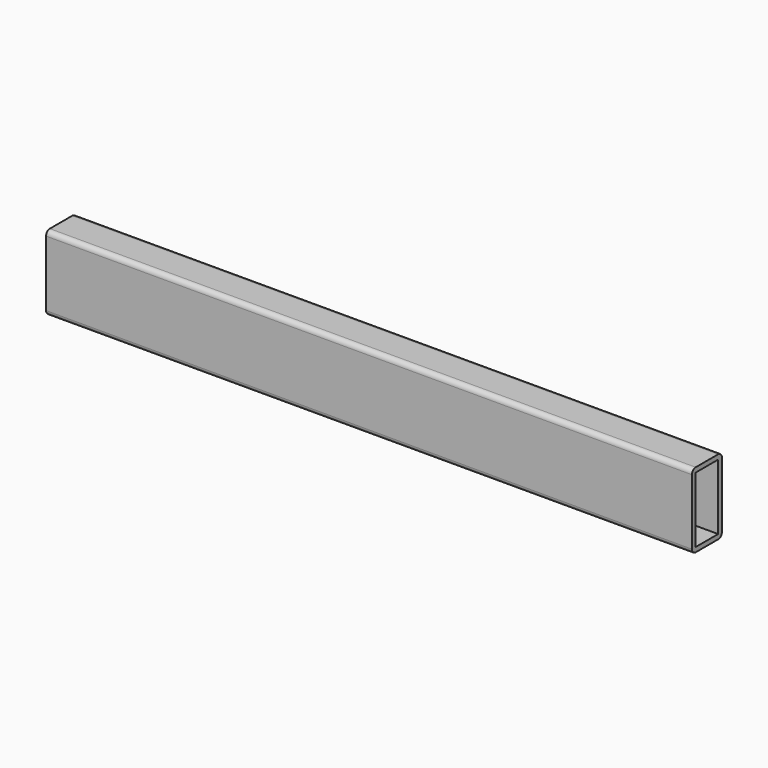
from build123d import *

# Parameters (mm, degrees)
F0_W     = 38.1
F0_H     = 88.9
F1_DEPTH = 876.3


with BuildPart() as f1:
    # F0 (on Right) → F1 (new body)
    with BuildSketch(Plane.YZ):
        with BuildLine():
            ThreePointArc((25.4, 44.45), (23.540128, 48.940128), (19.05, 50.8))
            Line((19.05, 50.8), (-19.05, 50.8))
            ThreePointArc((-19.05, 50.8), (-23.540128, 48.940128), (-25.4, 44.45))
            Line((-25.4, 44.45), (-25.4, -44.45))
            ThreePointArc((-25.4, -44.45), (-23.540128, -48.940128), (-19.05, -50.8))
            Line((-19.05, -50.8), (19.05, -50.8))
            ThreePointArc((19.05, -50.8), (23.540128, -48.940128), (25.4, -44.45))
            Line((25.4, -44.45), (25.4, 44.45))
        make_face()
        Rectangle(F0_W, F0_H, mode=Mode.SUBTRACT)
    extrude(amount=-F1_DEPTH)


solid = f1.part
